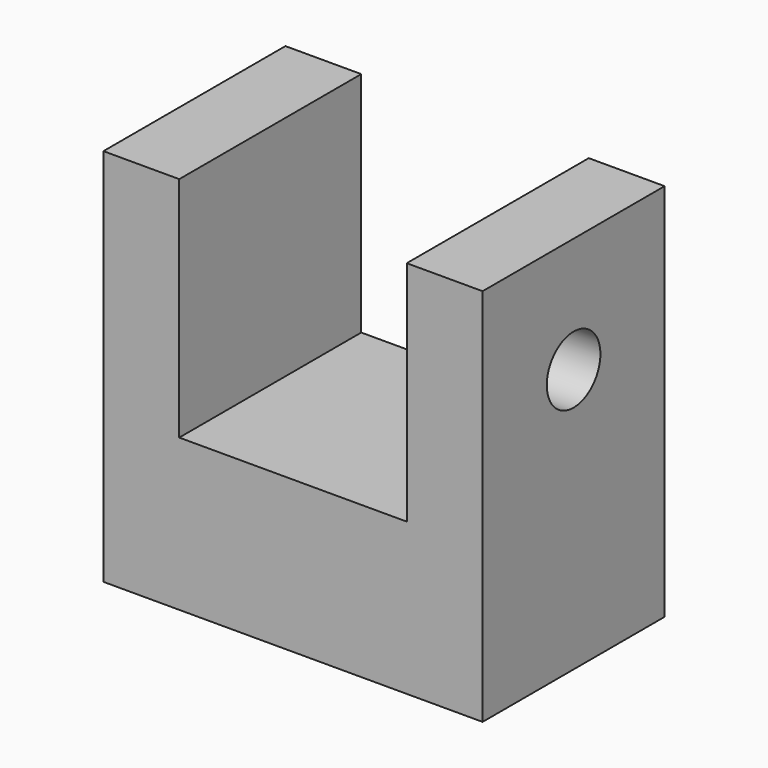
from build123d import *

# Parameters (mm, degrees)
F0_W     = 31.75
F0_H     = 31.75
F1_DEPTH = 19.05
F2_W     = 19.05
F2_H     = 19.05
F3_DEPTH = 19.051
F5_D     = 5.6134
F5_DEPTH = 7.62


with BuildPart() as f1:
    # F0 (on Front) → F1 (new body)
    with BuildSketch(Plane.XZ):
        with Locations((15.875, -15.875)):
            Rectangle(F0_W, F0_H)
    extrude(amount=F1_DEPTH)

    # F2 (on face) → F3 (cut, through all)
    with BuildSketch(Plane.XZ.offset(19.05)):
        with Locations((15.875, -9.525)):
            Rectangle(F2_W, F2_H)
    extrude(amount=-F3_DEPTH, mode=Mode.SUBTRACT)

    # F5
    with Locations(Plane.YZ.offset(31.75)):
        with Locations((-9.525, -9.652)):
            Hole(F5_D / 2, depth=F5_DEPTH)


solid = f1.part
